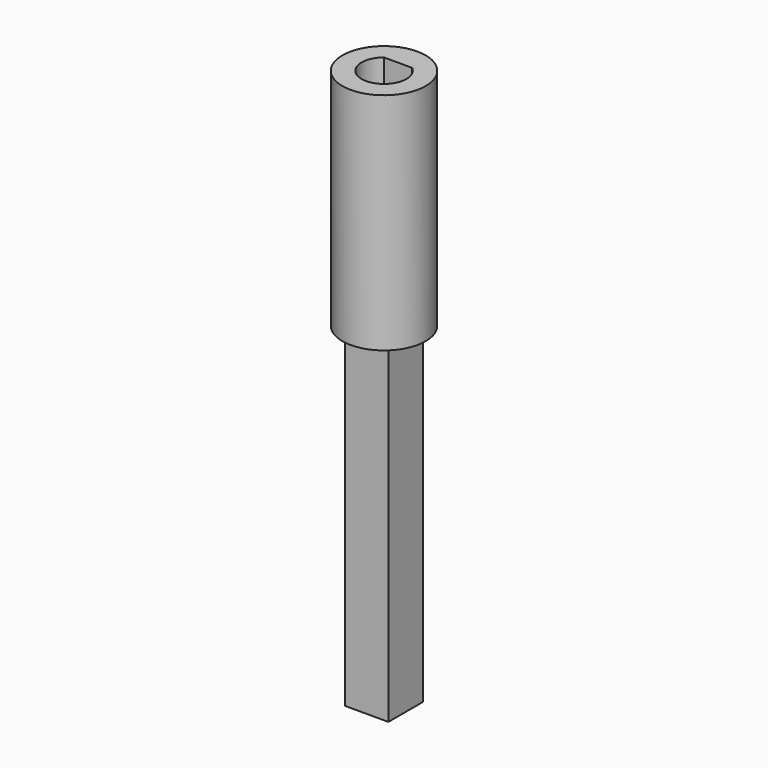
from build123d import *

# Parameters (mm, degrees)
SKETCH_W     = 5.2
SKETCH_H     = 5.2
PAD_DEPTH    = 40
SKETCH001_R  = 5
PAD001_DEPTH = 27
POCKET_DEPTH = 22


with BuildPart() as part:
    # Sketch → Pad (new body)
    with BuildSketch(Plane.XY):
        Rectangle(SKETCH_W, SKETCH_H)
    extrude(amount=PAD_DEPTH)

    # Sketch001 → Pad001 (new body)
    with BuildSketch(Plane.XY.offset(40)):
        Circle(SKETCH001_R)
    extrude(amount=PAD001_DEPTH)

    # Sketch002 → Pocket (cut)
    with BuildSketch(Plane.XY.offset(67)):
        with BuildLine():
            Line((-1.697056, 2.1), (1.697056, 2.1))
            ThreePointArc((-1.697056, 2.1), (0, -2.7), (1.697056, 2.1))
        make_face()
    extrude(amount=-POCKET_DEPTH, mode=Mode.SUBTRACT)


solid = part.part
